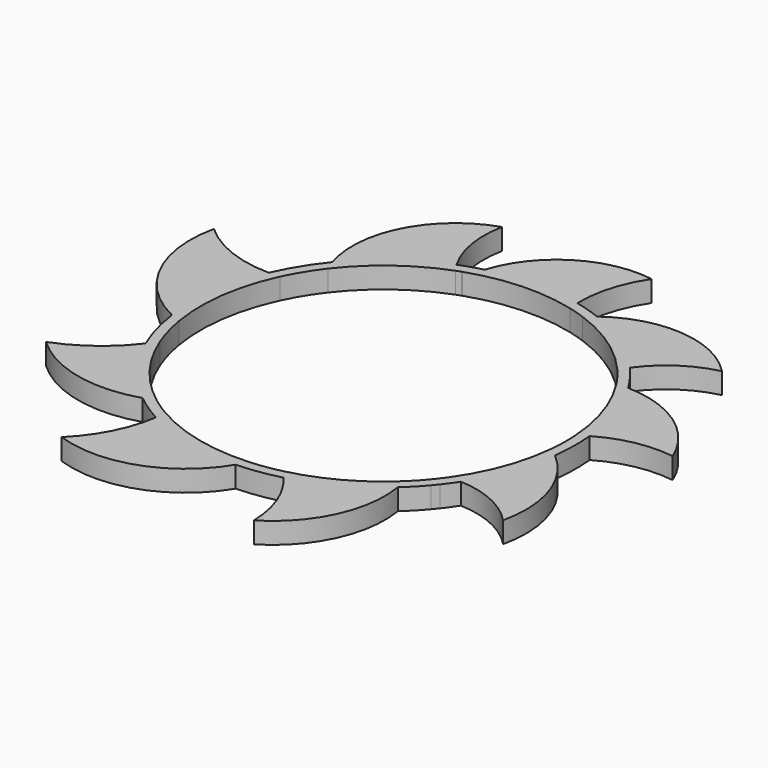
from build123d import *

# Parameters (mm, degrees)
F1_DEPTH = 5


with BuildPart() as f1:
    # F0 (on Top) → F1 (new body)
    with BuildSketch(Plane.XY):
        with BuildLine():
            ThreePointArc((38.502261, -1.597772), (40.718756, 0.748882), (43.205982, 2.806393))
            ThreePointArc((43.205982, 2.806393), (41.074175, 13.694702), (36.245186, 23.683733))
            ThreePointArc((36.245186, 23.683733), (34.607614, 26.018181), (32.819931, 28.239774))
            ThreePointArc((32.819931, 28.239774), (24.499086, 35.699124), (14.546237, 40.780383))
            ThreePointArc((14.546237, 40.780383), (12.950133, 39.127779), (11.519659, 37.329894))
            ThreePointArc((11.519659, 37.329894), (10.939992, 39.638686), (10.562187, 41.988961))
            ThreePointArc((10.562187, 41.988961), (-1.797083, 43.259718), (-14.008372, 40.968258))
            ThreePointArc((-14.008372, 40.968258), (-14.033128, 40.846587), (-14.058419, 40.725026))
            ThreePointArc((-14.058419, 40.725026), (-14.150281, 40.80644), (-14.242495, 40.887456))
            ThreePointArc((-14.242495, 40.887456), (-14.802375, 40.688111), (-15.359467, 40.4811))
            ThreePointArc((-15.359467, 40.4811), (-25.8155, 34.759065), (-34.315088, 26.402792))
            ThreePointArc((-34.315088, 26.402792), (-36.969234, 22.536824), (-39.189715, 18.40649))
            ThreePointArc((-39.189715, 18.40649), (-42.897454, 5.868657), (-42.693446, -7.20433))
            ThreePointArc((-42.693446, -7.20433), (-41.725569, -11.558959), (-40.314768, -15.790888))
            ThreePointArc((-40.314768, -15.790888), (-34.506812, -26.151723), (-26.101976, -34.544457))
            ThreePointArc((-26.101976, -34.544457), (-23.851243, -33.463072), (-21.70451, -32.187641))
            ThreePointArc((-21.70451, -32.187641), (-21.539561, -34.851521), (-21.608116, -37.519622))
            ThreePointArc((-21.608116, -37.519622), (-9.843426, -42.16325), (2.76125, -43.20889))
            ThreePointArc((2.76125, -43.20889), (3.776863, -40.777994), (4.55104, -38.259785))
            ThreePointArc((4.55104, -38.259785), (7.293587, -40.055986), (9.795652, -42.174375))
            ThreePointArc((9.795652, -42.174375), (20.620392, -38.071408), (29.97107, -31.246882))
            ThreePointArc((29.97107, -31.246882), (29.244852, -28.952192), (28.314719, -26.732316))
            ThreePointArc((28.314719, -26.732316), (31.777465, -25.55893), (35.383111, -24.953319))
            ThreePointArc((35.383111, -24.953319), (40.599644, -15.043325), (43.099902, -4.126874))
            ThreePointArc((43.099902, -4.126874), (40.863438, -2.748966), (38.502261, -1.597772))
        make_face()
        with BuildLine():
            ThreePointArc((11.090625, 36.944765), (11.091742, 36.830639), (11.092309, 36.716508))
            ThreePointArc((11.092309, 36.716508), (11.076055, 36.692352), (11.059829, 36.668176))
            ThreePointArc((11.059829, 36.668176), (11.075017, 36.806494), (11.090625, 36.944765))
        make_face(mode=Mode.SUBTRACT)
        with BuildLine():
            add(Edge.make_bspline(
                [(35.924434, -28.145118), (35.55734, -28.595677), (35.190245, -29.046235), (34.82315, -29.496794)],
                knots=[0, 0, 0, 0, 1.743518, 1.743518, 1.743518, 1.743518], degree=3))
            ThreePointArc((35.924434, -28.145118), (37.12508, -26.541309), (38.254179, -24.88635))
            ThreePointArc((38.254179, -24.88635), (42.839633, -15.731451), (45.268646, -5.784669))
            ThreePointArc((45.268646, -5.784669), (45.630344, -0.76446), (45.437012, 4.265048))
            ThreePointArc((45.437012, 4.265048), (43.311152, 14.382515), (38.962614, 23.761888))
            ThreePointArc((38.962614, 23.761888), (36.690962, 27.138275), (34.127567, 30.298875))
            ThreePointArc((34.127567, 30.298875), (26.090127, 37.44353), (16.603983, 42.509063))
            ThreePointArc((16.603983, 42.509063), (13.529918, 43.58502), (10.386943, 44.438993))
            ThreePointArc((10.386943, 44.438993), (-0.500898, 45.633998), (-11.359886, 44.20029))
            ThreePointArc((-11.359886, 44.20029), (-14.046385, 43.421328), (-16.680117, 42.479246))
            ThreePointArc((-16.680117, 42.479246), (-26.848804, 36.903311), (-35.283704, 28.944307))
            ThreePointArc((-35.283704, 28.944307), (-38.912407, 23.844019), (-41.809082, 18.295172))
            ThreePointArc((-41.809082, 18.295172), (-45.198145, 6.31192), (-45.22164, -6.141333))
            ThreePointArc((-45.22164, -6.141333), (-43.969857, -12.221472), (-41.904528, -18.075485))
            ThreePointArc((-41.904528, -18.075485), (-36.350911, -27.592099), (-28.678272, -35.500273))
            ThreePointArc((-28.678272, -35.500273), (-25.385911, -37.924506), (-21.889795, -40.044345))
            ThreePointArc((-21.889795, -40.044345), (-10.586101, -44.391971), (1.46312, -45.613287))
            ThreePointArc((1.46312, -45.613287), (6.593302, -45.157956), (11.639511, -44.12748))
            ThreePointArc((11.639511, -44.12748), (21.699379, -40.147847), (30.539846, -33.912099))
            ThreePointArc((30.539846, -33.912099), (32.755977, -31.776699), (34.82315, -29.496794))
        make_face()
        with BuildLine():
            ThreePointArc((43.205982, 2.806393), (43.274261, 1.403935), (43.297029, 0))
            ThreePointArc((43.297029, 0), (43.247719, -2.06579), (43.099902, -4.126874))
            ThreePointArc((43.099902, -4.126874), (40.599644, -15.043325), (35.383111, -24.953319))
            ThreePointArc((35.383111, -24.953319), (32.828257, -28.230094), (29.97107, -31.246882))
            ThreePointArc((29.97107, -31.246882), (20.620392, -38.071408), (9.795652, -42.174375))
            ThreePointArc((9.795652, -42.174375), (6.299722, -42.836272), (2.76125, -43.20889))
            ThreePointArc((2.76125, -43.20889), (-9.843426, -42.16325), (-21.608116, -37.519622))
            ThreePointArc((-21.608116, -37.519622), (-23.901383, -36.10203), (-26.101976, -34.544457))
            ThreePointArc((-26.101976, -34.544457), (-34.506812, -26.151723), (-40.314768, -15.790888))
            ThreePointArc((-40.314768, -15.790888), (-41.725569, -11.558959), (-42.693446, -7.20433))
            ThreePointArc((-42.693446, -7.20433), (-42.897454, 5.868657), (-39.189715, 18.40649))
            ThreePointArc((-39.189715, 18.40649), (-36.969234, 22.536824), (-34.315088, 26.402792))
            ThreePointArc((-34.315088, 26.402792), (-25.8155, 34.759065), (-15.359467, 40.4811))
            ThreePointArc((-15.359467, 40.4811), (-14.802375, 40.688111), (-14.242495, 40.887456))
            ThreePointArc((-14.242495, 40.887456), (-14.125491, 40.928024), (-14.008372, 40.968258))
            ThreePointArc((-14.008372, 40.968258), (-1.797083, 43.259718), (10.562187, 41.988961))
            ThreePointArc((10.562187, 41.988961), (12.568747, 41.432587), (14.546237, 40.780383))
            ThreePointArc((14.546237, 40.780383), (24.499086, 35.699124), (32.819931, 28.239774))
            ThreePointArc((32.819931, 28.239774), (34.607614, 26.018181), (36.245186, 23.683733))
            ThreePointArc((36.245186, 23.683733), (41.074175, 13.694702), (43.205982, 2.806393))
        make_face(mode=Mode.SUBTRACT)
        with BuildLine():
            ThreePointArc((45.268646, -5.784669), (42.839633, -15.731451), (38.254179, -24.88635))
            ThreePointArc((38.254179, -24.88635), (46.836585, -26.9326), (54.002321, -32.080128))
            ThreePointArc((54.002321, -32.080128), (53.318598, -17.709102), (45.268646, -5.784669))
        make_face()
        with BuildLine():
            ThreePointArc((18.030986, -60.946237), (28.411333, -49.338255), (30.539846, -33.912099))
            ThreePointArc((30.539846, -33.912099), (21.699379, -40.147847), (11.639511, -44.12748))
            ThreePointArc((11.639511, -44.12748), (16.292682, -51.983004), (18.030986, -60.946237))
        make_face()
        with BuildLine():
            ThreePointArc((38.962614, 23.761888), (43.311152, 14.382515), (45.437012, 4.265048))
            ThreePointArc((45.437012, 4.265048), (53.655325, 7.364285), (62.435822, 7.585189))
            ThreePointArc((62.435822, 7.585189), (53.112392, 19.175175), (38.962614, 23.761888))
        make_face()
        with BuildLine():
            ThreePointArc((-30.59298, -57.094834), (-12.530174, -57.035031), (1.46312, -45.613287))
            ThreePointArc((1.46312, -45.613287), (-10.586101, -44.391971), (-21.889795, -40.044345))
            ThreePointArc((-21.889795, -40.044345), (-24.869098, -49.270056), (-30.59298, -57.094834))
        make_face()
        with BuildLine():
            ThreePointArc((16.603983, 42.509063), (26.090127, 37.44353), (34.127567, 30.298875))
            ThreePointArc((34.127567, 30.298875), (40.342926, 36.373929), (48.304058, 39.860666))
            ThreePointArc((48.304058, 39.860666), (32.956953, 47.204731), (16.603983, 42.509063))
        make_face()
        with BuildLine():
            ThreePointArc((-56.653903, -29.111429), (-43.535146, -36.111304), (-28.678272, -35.500273))
            ThreePointArc((-28.678272, -35.500273), (-36.350911, -27.592099), (-41.904528, -18.075485))
            ThreePointArc((-41.904528, -18.075485), (-48.504761, -24.628504), (-56.653903, -29.111429))
        make_face()
        with BuildLine():
            ThreePointArc((-11.359886, 44.20029), (-0.500898, 45.633998), (10.386943, 44.438993))
            ThreePointArc((10.386943, 44.438993), (11.475998, 52.869411), (15.087919, 60.564346))
            ThreePointArc((15.087919, 60.564346), (-1.180367, 57.302692), (-11.359886, 44.20029))
        make_face()
        with BuildLine():
            ThreePointArc((-60.702262, 25.645594), (-58.506458, 7.051887), (-45.22164, -6.141333))
            ThreePointArc((-45.22164, -6.141333), (-45.198145, 6.31192), (-41.809082, 18.295172))
            ThreePointArc((-41.809082, 18.295172), (-51.937891, 20.216839), (-60.702262, 25.645594))
        make_face()
        with BuildLine():
            ThreePointArc((-35.283704, 28.944307), (-26.848804, 36.903311), (-16.680117, 42.479246))
            ThreePointArc((-16.680117, 42.479246), (-19.699815, 50.753822), (-19.535904, 59.560655))
            ThreePointArc((-19.535904, 59.560655), (-33.732866, 47.504807), (-35.283704, 28.944307))
        make_face()
    extrude(amount=F1_DEPTH)


solid = f1.part
